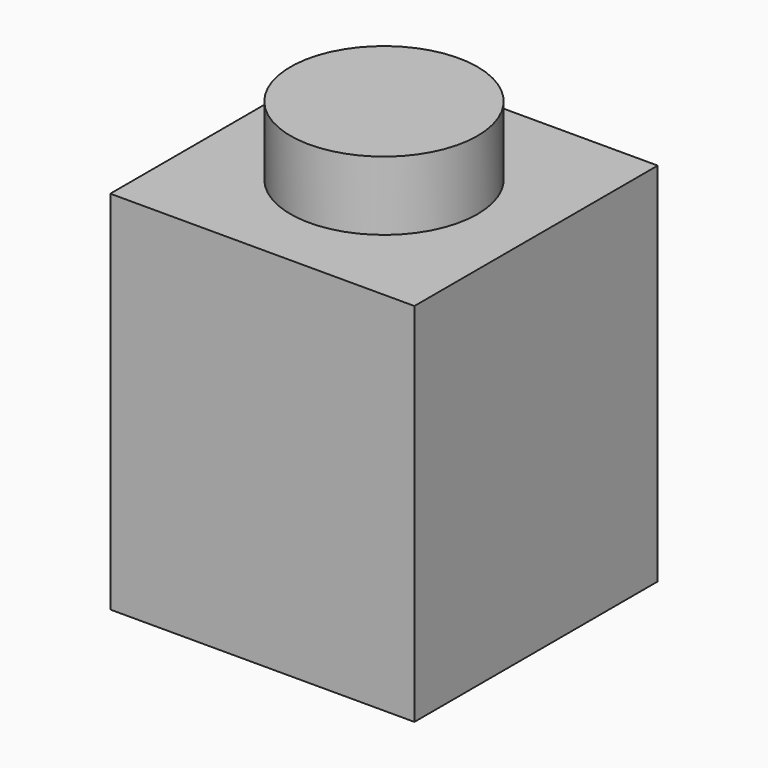
from build123d import *

# Parameters (mm, degrees)
F0_W     = 7.8486
F0_H     = 7.8486
F1_DEPTH = 9.4488
F2_R     = 2.413
F3_DEPTH = 1.778
F4_W     = 4.8006
F4_H     = 4.8006
F5_DEPTH = 8.0518


with BuildPart() as f1:
    # F0 (on Top) → F1 (new body)
    with BuildSketch(Plane.XY):
        Rectangle(F0_W, F0_H)
    extrude(amount=F1_DEPTH)

    # F2 (on face) → F3 (join)
    with BuildSketch(Plane.XY.offset(9.4488)):
        Circle(F2_R)
    extrude(amount=F3_DEPTH)

    # F4 (on face) → F5 (cut)
    with BuildSketch(Plane(origin=(0, 0, 0), x_dir=(1, 0, 0), z_dir=(0, 0, -1))):
        Rectangle(F4_W, F4_H)
    extrude(amount=-F5_DEPTH, mode=Mode.SUBTRACT)


solid = f1.part
